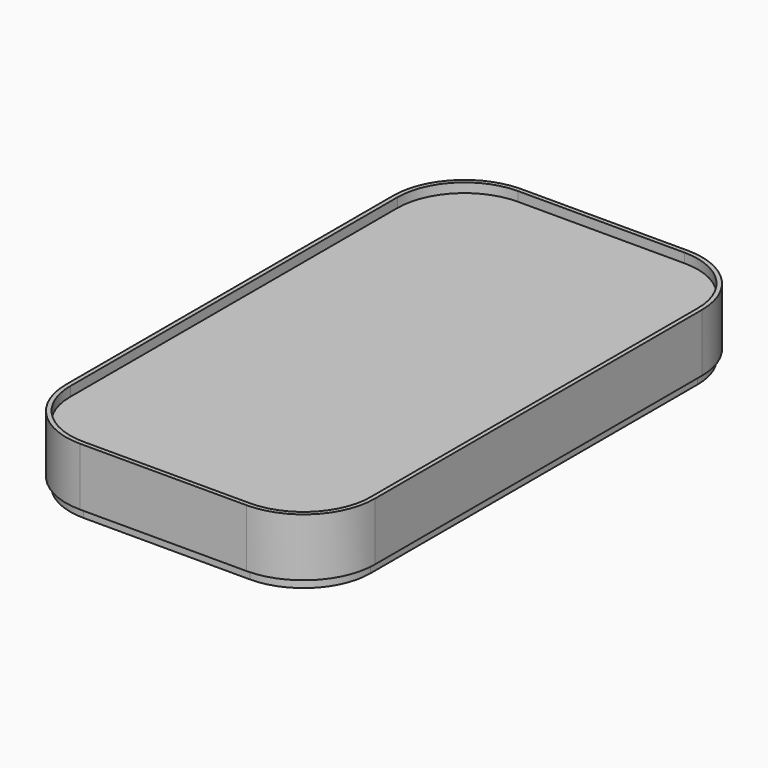
from build123d import *

# Parameters (mm, degrees)
F1_DEPTH = 17
F2_DEPTH = 3.2
F3_DEPTH = 20.3


with BuildPart() as f1:
    # F0 (on Top) → F1 (new body)
    with BuildSketch(Plane.XY):
        with BuildLine():
            Line((18.6661011875, 97.4044347763), (-39.5838988125, 97.4044347763))
            ThreePointArc((-39.5838988125, 97.4044347763), (-56.1832305009, 90.5287664647), (-63.0588988125, 73.9294347763))
            Line((-63.0588988125, 73.9294347763), (-63.0588988125, -69.3205652237))
            ThreePointArc((-63.0588988125, -69.3205652237), (-56.1832305009, -85.919896912), (-39.5838988125, -92.7955652237))
            Line((-39.5838988125, -92.7955652237), (18.6661011875, -92.7955652237))
            ThreePointArc((18.6661011875, -92.7955652237), (35.2654328758, -85.919896912), (42.1411011875, -69.3205652237))
            Line((42.1411011875, -69.3205652237), (42.1411011875, 73.9294347763))
            ThreePointArc((42.1411011875, 73.9294347763), (35.2654328758, 90.5287664647), (18.6661011875, 97.4044347763))
        make_face()
        with BuildLine():
            ThreePointArc((-55.4588988125, 73.9294347763), (-50.8092189639, 85.1547549276), (-39.5838988125, 89.8044347763))
            Line((-39.5838988125, 89.8044347763), (18.6661011875, 89.8044347763))
            ThreePointArc((18.6661011875, 89.8044347763), (29.8914213388, 85.1547549276), (34.5411011875, 73.9294347763))
            Line((34.5411011875, 73.9294347763), (34.5411011875, -69.3205652237))
            ThreePointArc((34.5411011875, -69.3205652237), (29.8914213388, -80.545885375), (18.6661011875, -85.1955652237))
            Line((18.6661011875, -85.1955652237), (-39.5838988125, -85.1955652237))
            ThreePointArc((-39.5838988125, -85.1955652237), (-50.8092189639, -80.545885375), (-55.4588988125, -69.3205652237))
            Line((-55.4588988125, -69.3205652237), (-55.4588988125, 73.9294347763))
        make_face(mode=Mode.SUBTRACT)
        with BuildLine():
            Line((18.6661011875, 89.8044347763), (-39.5838988125, 89.8044347763))
            ThreePointArc((-39.5838988125, 89.8044347763), (-50.8092189639, 85.1547549276), (-55.4588988125, 73.9294347763))
            Line((-55.4588988125, 73.9294347763), (-55.4588988125, -69.3205652237))
            ThreePointArc((-55.4588988125, -69.3205652237), (-50.8092189639, -80.545885375), (-39.5838988125, -85.1955652237))
            Line((-39.5838988125, -85.1955652237), (18.6661011875, -85.1955652237))
            ThreePointArc((18.6661011875, -85.1955652237), (29.8914213388, -80.545885375), (34.5411011875, -69.3205652237))
            Line((34.5411011875, -69.3205652237), (34.5411011875, 73.9294347763))
            ThreePointArc((34.5411011875, 73.9294347763), (29.8914213388, 85.1547549276), (18.6661011875, 89.8044347763))
        make_face()
    extrude(amount=F1_DEPTH)

    # F0 (on Top) → F2 (join)
    with BuildSketch(Plane.XY):
        with BuildLine():
            Line((18.6661011875, 97.4044347763), (-39.5838988125, 97.4044347763))
            ThreePointArc((-39.5838988125, 97.4044347763), (-56.1832305009, 90.5287664647), (-63.0588988125, 73.9294347763))
            Line((-63.0588988125, 73.9294347763), (-63.0588988125, -69.3205652237))
            ThreePointArc((-63.0588988125, -69.3205652237), (-56.1832305009, -85.919896912), (-39.5838988125, -92.7955652237))
            Line((-39.5838988125, -92.7955652237), (18.6661011875, -92.7955652237))
            ThreePointArc((18.6661011875, -92.7955652237), (35.2654328758, -85.919896912), (42.1411011875, -69.3205652237))
            Line((42.1411011875, -69.3205652237), (42.1411011875, 73.9294347763))
            ThreePointArc((42.1411011875, 73.9294347763), (35.2654328758, 90.5287664647), (18.6661011875, 97.4044347763))
        make_face()
        with BuildLine():
            ThreePointArc((-55.4588988125, 73.9294347763), (-50.8092189639, 85.1547549276), (-39.5838988125, 89.8044347763))
            Line((-39.5838988125, 89.8044347763), (18.6661011875, 89.8044347763))
            ThreePointArc((18.6661011875, 89.8044347763), (29.8914213388, 85.1547549276), (34.5411011875, 73.9294347763))
            Line((34.5411011875, 73.9294347763), (34.5411011875, -69.3205652237))
            ThreePointArc((34.5411011875, -69.3205652237), (29.8914213388, -80.545885375), (18.6661011875, -85.1955652237))
            Line((18.6661011875, -85.1955652237), (-39.5838988125, -85.1955652237))
            ThreePointArc((-39.5838988125, -85.1955652237), (-50.8092189639, -80.545885375), (-55.4588988125, -69.3205652237))
            Line((-55.4588988125, -69.3205652237), (-55.4588988125, 73.9294347763))
        make_face(mode=Mode.SUBTRACT)
    extrude(amount=-F2_DEPTH)


with BuildPart() as f3:
    # F0 (on Top) → F3 (new body)
    with BuildSketch(Plane.XY):
        with BuildLine():
            Line((18.6661011875, 98.9044347763), (-39.5838988125, 98.9044347763))
            ThreePointArc((-39.5838988125, 98.9044347763), (-57.2438906727, 91.5894266364), (-64.5588988125, 73.9294347763))
            Line((-64.5588988125, 73.9294347763), (-64.5588988125, -69.3205652237))
            ThreePointArc((-64.5588988125, -69.3205652237), (-57.2438906727, -86.9805570838), (-39.5838988125, -94.2955652237))
            Line((-39.5838988125, -94.2955652237), (18.6661011875, -94.2955652237))
            ThreePointArc((18.6661011875, -94.2955652237), (36.3260930476, -86.9805570838), (43.6411011875, -69.3205652237))
            Line((43.6411011875, -69.3205652237), (43.6411011875, 73.9294347763))
            ThreePointArc((43.6411011875, 73.9294347763), (36.3260930476, 91.5894266364), (18.6661011875, 98.9044347763))
        make_face()
        with BuildLine():
            ThreePointArc((-63.0588988125, 73.9294347763), (-56.1832305009, 90.5287664647), (-39.5838988125, 97.4044347763))
            Line((-39.5838988125, 97.4044347763), (18.6661011875, 97.4044347763))
            ThreePointArc((18.6661011875, 97.4044347763), (35.2654328758, 90.5287664647), (42.1411011875, 73.9294347763))
            Line((42.1411011875, 73.9294347763), (42.1411011875, -69.3205652237))
            ThreePointArc((42.1411011875, -69.3205652237), (35.2654328758, -85.919896912), (18.6661011875, -92.7955652237))
            Line((18.6661011875, -92.7955652237), (-39.5838988125, -92.7955652237))
            ThreePointArc((-39.5838988125, -92.7955652237), (-56.1832305009, -85.919896912), (-63.0588988125, -69.3205652237))
            Line((-63.0588988125, -69.3205652237), (-63.0588988125, 73.9294347763))
        make_face(mode=Mode.SUBTRACT)
    extrude(amount=F3_DEPTH)


solid = Compound([f1.part, f3.part])
